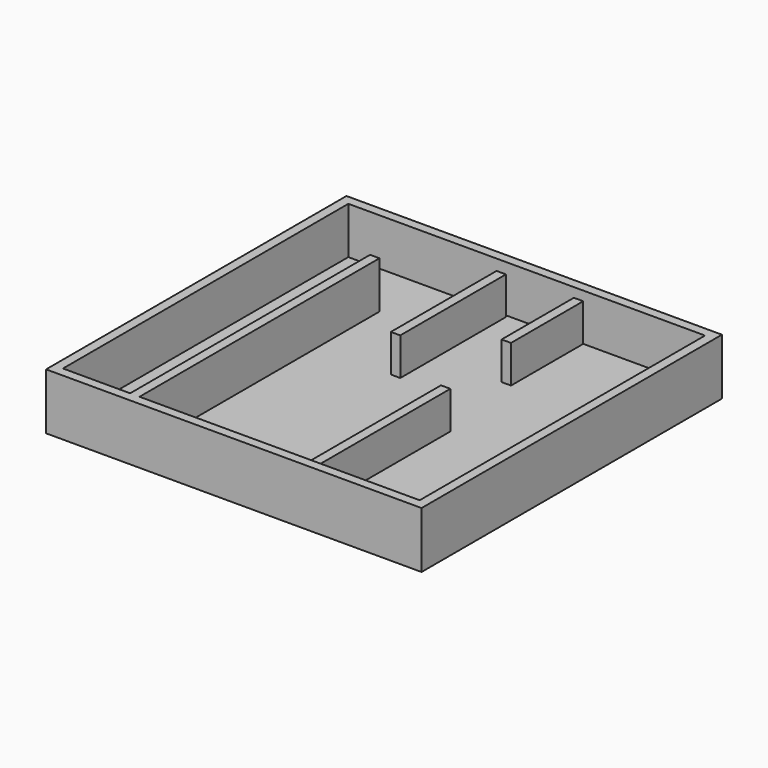
from build123d import *

# Parameters (mm, degrees)
F0_W     = 50.8
F0_H     = 50.8
F1_DEPTH = 7.62
F2_T     = -1.27
F3_W     = 1.27
F3_H     = 40.579203
F4_DEPTH = 6.35
F5_W     = 1.27
F5_H     = 17.874572
F5_H_2   = 22.697871
F6_DEPTH = 6.35
F7_W     = 1.27
F7_H     = 12.483831
F8_DEPTH = 6.35


with BuildPart() as f1:
    # F0 (on Top) → F1 (new body)
    with BuildSketch(Plane.XY):
        with Locations((25.4, 25.4)):
            Rectangle(F0_W, F0_H)
    extrude(amount=F1_DEPTH)

    # F2
    f2_openings = [f1.faces().sort_by_distance(p)[0] for p in [
        (25.4, 25.4, 7.62),
    ]]
    offset(amount=F2_T, openings=f2_openings)

    # F3 (on face) → F4 (join)
    with BuildSketch(Plane.XY.offset(1.27)):
        with Locations((10.990904, 21.559601)):
            Rectangle(F3_W, F3_H)
    extrude(amount=F4_DEPTH)

    # F5 (on Top) → F6 (join)
    with BuildSketch(Plane.XY):
        with Locations((22.204734, 40.288722)):
            Rectangle(F5_W, F5_H)
        with Locations((33.972504, 13.760585)):
            Rectangle(F5_W, F5_H_2)
    extrude(amount=F6_DEPTH)

    # F7 (on Top) → F8 (join)
    with BuildSketch(Plane.XY):
        with Locations((32.418778, 43.551543)):
            Rectangle(F7_W, F7_H)
    extrude(amount=F8_DEPTH)


solid = f1.part
